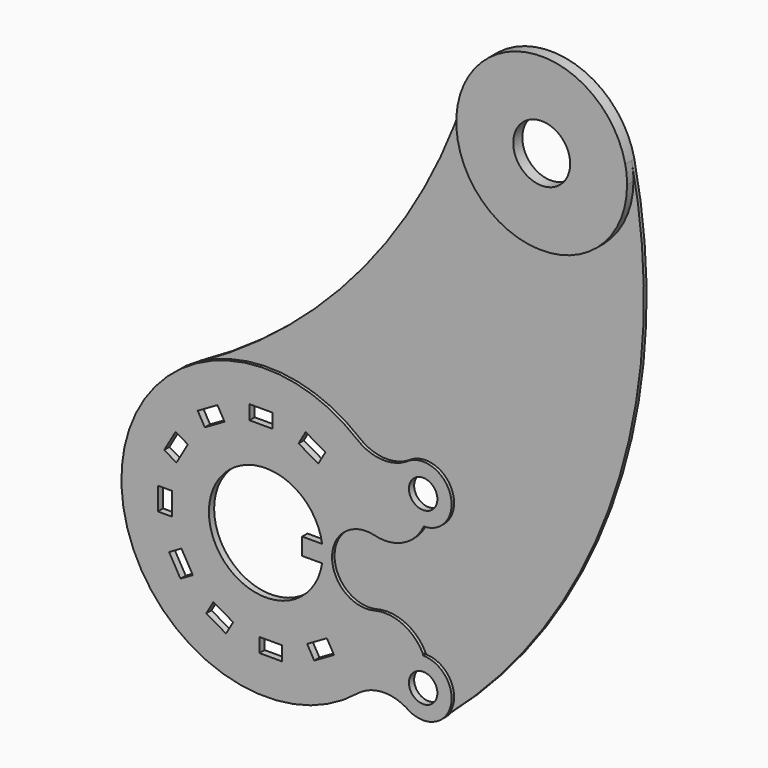
from build123d import *

# Parameters (mm, degrees)
F0_W     = 5
F0_H     = 8
F0_W_2   = 8
F0_H_2   = 5
F0_R     = 5
F1_DEPTH = 2.3
F0_R_2   = 10
F2_DEPTH = 4
F3_DEPTH = 1.2


with BuildPart() as f1:
    # F0 (on Front) → F1 (new body)
    with BuildSketch(Plane.XZ):
        with BuildLine():
            ThreePointArc((7.153226, -74.121703), (14.238258, -75.194194), (20.221781, -71.251433))
            ThreePointArc((20.221781, -71.251433), (21.033859, -60.947899), (12.295184, -55.429038))
            ThreePointArc((12.295184, -55.429038), (12.194133, -55.427506), (12.093071, -55.426996))
            Line((12.093071, -55.426996), (12.093071, -55.001306))
            ThreePointArc((12.093071, -55.001306), (4.947488, -48.016355), (-5, -47.06958))
            ThreePointArc((-5, -47.06958), (-19.906929, -35.426996), (-5, -23.784412))
            ThreePointArc((-5, -23.784412), (5.161267, -22.736379), (12.295184, -15.424953))
            ThreePointArc((12.295184, -15.424953), (21.73493, -2.774723), (7.153226, 3.267712))
            ThreePointArc((7.153226, 3.267712), (6.640488, 2.917306), (6.113686, 2.588424))
            ThreePointArc((6.113686, 2.588424), (-2.672595, 0.515094), (-11.057608, 3.860088))
            ThreePointArc((-11.057608, 3.860088), (-38.560075, 15.104072), (-67.642981, 9.021521))
            ThreePointArc((-67.642981, 9.021521), (-85.210878, -63.837138), (-11.057608, -74.714079))
            ThreePointArc((-11.057608, -74.714079), (-2.672595, -71.369086), (6.113686, -73.442416))
            ThreePointArc((6.113686, -73.442416), (6.640488, -73.771297), (7.153226, -74.121703))
        make_face()
        Polygon((-54.663805, -66.811441), (-57.163805, -71.141568), (-64.092009, -67.141568), (-61.592009, -62.811441), align=None, mode=Mode.SUBTRACT)
        Polygon((-68.816052, -56.859454), (-73.146179, -59.359454), (-77.146179, -52.431251), (-72.816052, -49.931251), align=None, mode=Mode.SUBTRACT)
        with Locations((-78.596264, -37.164657)):
            Rectangle(F0_W, F0_H, mode=Mode.SUBTRACT)
        with Locations((-41.431607, -70.853991)):
            Rectangle(F0_W_2, F0_H_2, mode=Mode.SUBTRACT)
        Polygon((-21.73681, -61.07378), (-19.23681, -65.403907), (-26.165013, -69.403907), (-28.665013, -65.07378), align=None, mode=Mode.SUBTRACT)
        with BuildLine():
            ThreePointArc((-23.395548, -38.426996), (-63.169268, -35.426996), (-23.395548, -32.426996))
            Line((-23.395548, -32.426996), (-30.395548, -32.426996))
            Line((-30.395548, -32.426996), (-30.395548, -38.426996))
            Line((-30.395548, -38.426996), (-23.395548, -38.426996))
        make_face(mode=Mode.SUBTRACT)
        Polygon((-74.553713, -23.932458), (-78.88384, -21.432458), (-74.88384, -14.504255), (-70.553713, -17.004255), align=None, mode=Mode.SUBTRACT)
        Polygon((-64.601726, -9.780212), (-67.101726, -5.450085), (-60.173523, -1.450085), (-57.673523, -5.780212), align=None, mode=Mode.SUBTRACT)
        with Locations((-44.906929, 0)):
            Rectangle(F0_W_2, F0_H_2, mode=Mode.SUBTRACT)
        Polygon((-31.674731, -4.04255), (-29.174731, 0.287577), (-22.246527, -3.712423), (-24.746527, -8.04255), align=None, mode=Mode.SUBTRACT)
        with Locations((12.093071, -65.426996)):
            Circle(F0_R, mode=Mode.SUBTRACT)
        with Locations((12.093071, -5.426996)):
            Circle(F0_R, mode=Mode.SUBTRACT)
    extrude(amount=F1_DEPTH)


with BuildPart() as f2:
    # F0 (on Front) → F2 (new body)
    with BuildSketch(Plane.XZ):
        with BuildLine():
            ThreePointArc((26.501558, 123.657355), (50.496625, 84.927217), (85.093071, 114.573004))
            ThreePointArc((85.093071, 114.573004), (84.931001, 117.687154), (84.446542, 120.767657))
            ThreePointArc((84.446542, 120.767657), (56.587304, 144.535769), (26.501558, 123.657355))
        make_face()
        with Locations((55.093071, 114.573004)):
            Circle(F0_R_2, mode=Mode.SUBTRACT)
    extrude(amount=F2_DEPTH)


with BuildPart() as f3:
    # F0 (on Front) → F3 (new body)
    with BuildSketch(Plane.XZ):
        with BuildLine():
            ThreePointArc((84.446542, 120.767657), (84.931001, 117.687154), (85.093071, 114.573004))
            ThreePointArc((85.093071, 114.573004), (50.496625, 84.927217), (26.501558, 123.657355))
            ThreePointArc((26.501558, 123.657355), (-9.549644, 57.2884), (-67.642981, 9.021521))
            ThreePointArc((-67.642981, 9.021521), (-38.560075, 15.104072), (-11.057608, 3.860088))
            ThreePointArc((-11.057608, 3.860088), (-2.672595, 0.515094), (6.113686, 2.588424))
            ThreePointArc((6.113686, 2.588424), (6.622901, 2.94422), (7.153226, 3.267712))
            ThreePointArc((7.153226, 3.267712), (21.73493, -2.774723), (12.295184, -15.424953))
            ThreePointArc((12.295184, -15.424953), (5.161267, -22.736379), (-5, -23.784412))
            ThreePointArc((-5, -23.784412), (-19.906929, -35.426996), (-5, -47.06958))
            ThreePointArc((-5, -47.06958), (4.947488, -48.016355), (12.093071, -55.001306))
            ThreePointArc((12.093071, -55.001306), (12.195814, -55.214376), (12.295184, -55.429038))
            ThreePointArc((12.295184, -55.429038), (21.033859, -60.947899), (20.221781, -71.251433))
            ThreePointArc((20.221781, -71.251433), (78.428576, 16.030295), (84.446542, 120.767657))
        make_face()
    extrude(amount=F3_DEPTH)


solid = Compound([f1.part, f2.part, f3.part])
